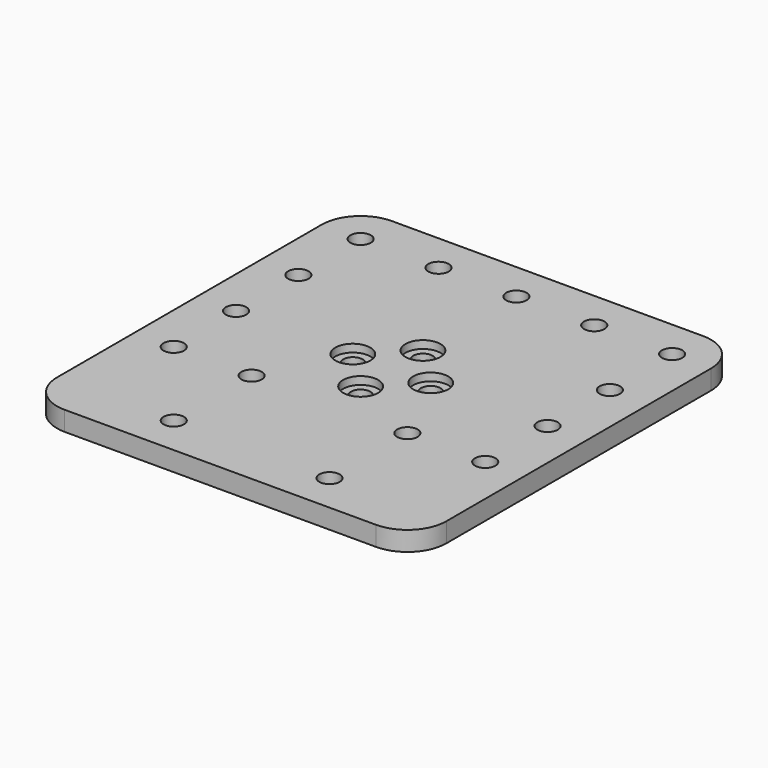
from build123d import *

# Parameters (mm, degrees)
SKETCH_W        = 100
SKETCH_H        = 105
PAD_DEPTH       = 5
SKETCH001_R     = 4.5
POCKET_DEPTH    = 2
SKETCH002_R     = 2.5
POCKET001_DEPTH = 3
SKETCH003_R     = 2.625
POCKET002_DEPTH = 5
FILLET_R        = 10


with BuildPart() as part:
    # Sketch → Pad (new body)
    with BuildSketch(Plane.XY):
        with Locations((0, -2.5)):
            Rectangle(SKETCH_W, SKETCH_H)
    extrude(amount=PAD_DEPTH)

    # Sketch001 (on Face6 of Pad) → Pocket (cut)
    with BuildSketch(Plane.XY.offset(5)):
        with Locations((0, 10)):
            Circle(SKETCH001_R)
        with Locations((10, 0)):
            Circle(SKETCH001_R)
        with Locations((-10, 0)):
            Circle(SKETCH001_R)
        with Locations((0, -10)):
            Circle(SKETCH001_R)
    extrude(amount=-POCKET_DEPTH, mode=Mode.SUBTRACT)

    # Sketch002 (on Face4 of Pocket) → Pocket001 (cut)
    with BuildSketch(Plane(origin=(0, 0, 0), x_dir=(1, 0, 0), z_dir=(0, 0, -1))):
        with Locations((0, 10)):
            Circle(SKETCH002_R)
        with Locations((10, 0)):
            Circle(SKETCH002_R)
        with Locations((0, -10)):
            Circle(SKETCH002_R)
        with Locations((-10, 0)):
            Circle(SKETCH002_R)
    extrude(amount=-POCKET001_DEPTH, mode=Mode.SUBTRACT)

    # Sketch003 (on Face5 of Pocket001) → Pocket002 (cut)
    with BuildSketch(Plane.XY.offset(5)):
        with Locations((-40, 0)):
            Circle(SKETCH003_R)
        with Locations((-40, -20)):
            Circle(SKETCH003_R)
        with Locations((-20, -45)):
            Circle(SKETCH003_R)
        with Locations((20, -45)):
            Circle(SKETCH003_R)
        with Locations((40, -20)):
            Circle(SKETCH003_R)
        with Locations((40, 0)):
            Circle(SKETCH003_R)
        with Locations((40, 20)):
            Circle(SKETCH003_R)
        with Locations((40, 40)):
            Circle(SKETCH003_R)
        with Locations((20, 40)):
            Circle(SKETCH003_R)
        with Locations((0, 40)):
            Circle(SKETCH003_R)
        with Locations((-20, 40)):
            Circle(SKETCH003_R)
        with Locations((-40, 40)):
            Circle(SKETCH003_R)
        with Locations((-40, 20)):
            Circle(SKETCH003_R)
        with Locations((-20, -20)):
            Circle(SKETCH003_R)
        with Locations((20, -20)):
            Circle(SKETCH003_R)
    extrude(amount=-POCKET002_DEPTH, mode=Mode.SUBTRACT)

    # Fillet
    fillet_edges = [part.edges().sort_by_distance(p)[0] for p in [
        (-50, 50, 2.5),
        (50, 50, 2.5),
        (50, -55, 2.5),
        (-50, -55, 2.5),
    ]]
    fillet(fillet_edges, radius=FILLET_R)


solid = part.part
